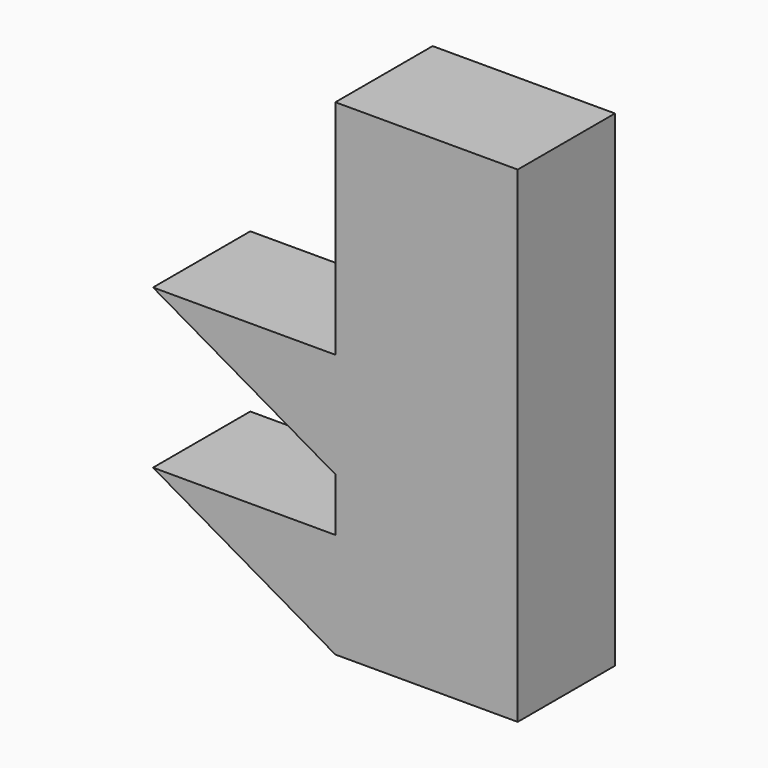
from build123d import *

# Parameters (mm, degrees)
F1_DEPTH      = 25.4
F1_DEPTH_BACK = 25.4


with BuildPart() as f1:
    # F0 (on Front) → F1 (new body, two sides)
    with BuildSketch(Plane.XZ) as f1_sk:
        Polygon((0, -57.605909), (76.2, -101.6), (76.2, 101.6), (0, 101.6), (0, 8.688091), (0, -35.306), align=None)
        Polygon((0, -57.605909), (0, -101.6), (76.2, -101.6), align=None)
        Polygon((-76.2, -57.605909), (0, -101.6), (0, -57.605909), align=None)
        Polygon((-76.2, 8.688091), (0, -35.306), (0, 8.688091), align=None)
    extrude(amount=F1_DEPTH)
    extrude(f1_sk.sketch, amount=-F1_DEPTH_BACK)


solid = f1.part
